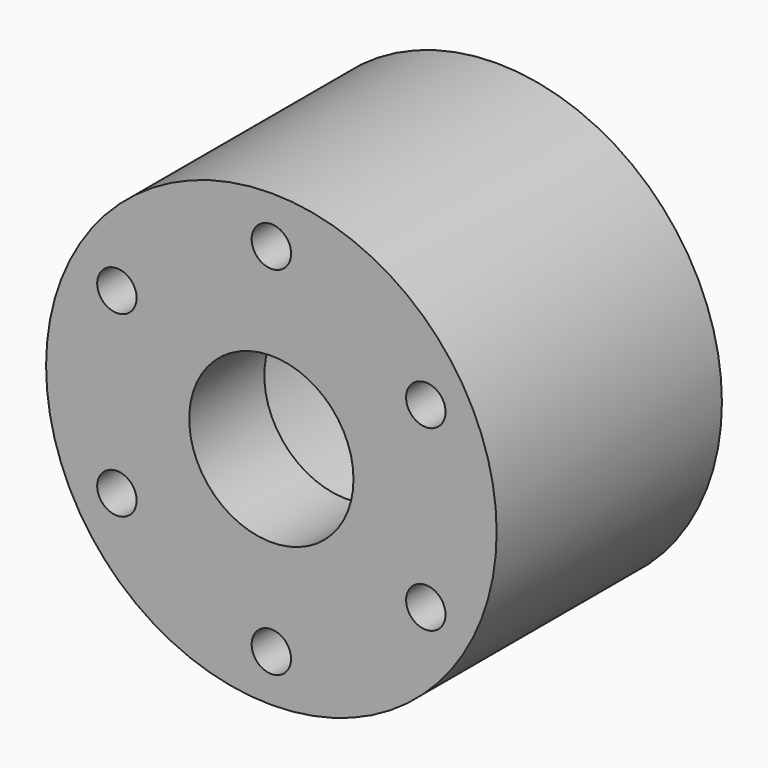
from build123d import *

# Parameters (mm, degrees)
F0_R     = 24
F0_R_2   = 15
F1_DEPTH = 20
F2_R     = 24
F3_DEPTH = 10
F5_D     = 4.2
F6_D     = 17.5


with BuildPart() as f1:
    # F0 (on Front) → F1 (new body)
    with BuildSketch(Plane.XZ):
        Circle(F0_R)
        Circle(F0_R_2, mode=Mode.SUBTRACT)
    extrude(amount=F1_DEPTH)

    # F2 (on face) → F3 (join)
    with BuildSketch(Plane.XZ.offset(20)):
        Circle(F2_R)
    extrude(amount=F3_DEPTH)

    # F5 (through all)
    with Locations(Plane(origin=(0, 0, 0), x_dir=(-1, 0, 0), z_dir=(0, 1, 0))):
        with Locations((0, 19), (16.4544826719, 9.5), (16.4544826719, -9.5), (0, -19), (-16.4544826719, -9.5), (-16.4544826719, 9.5)):
            Hole(F5_D / 2)

    # F6 (through all)
    with Locations(Plane(origin=(0, 0, 0), x_dir=(-1, 0, 0), z_dir=(0, 1, 0))):
        with Locations((0, 0)):
            Hole(F6_D / 2)


solid = f1.part
